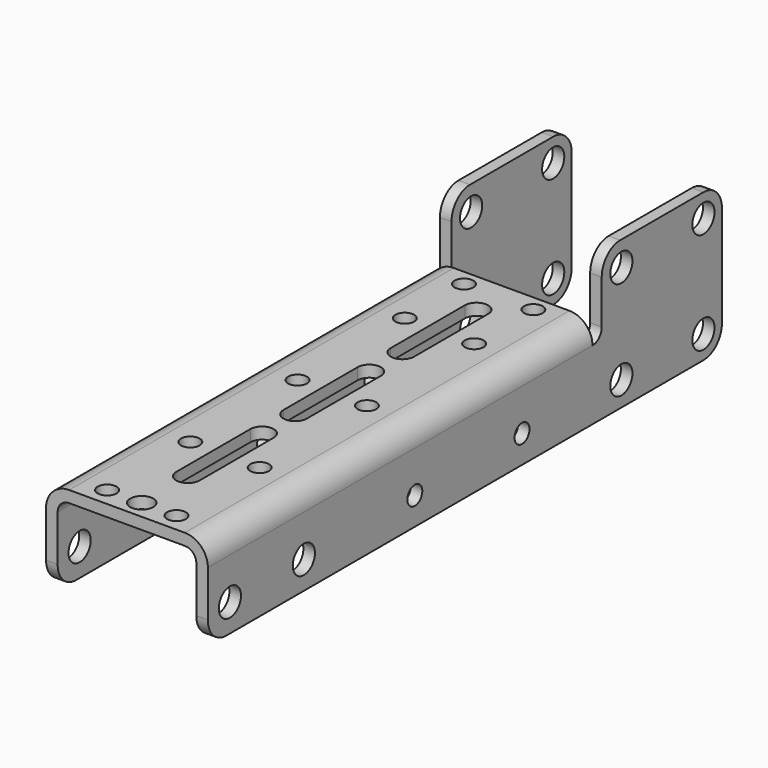
from build123d import *

# Parameters (mm, degrees)
F1_DEPTH      = 208
F2_R          = 6
F3_DEPTH      = 65.001
F3_DEPTH_BACK = 5.001
F5_DEPTH      = 70
F6_R          = 6
F7_DEPTH      = 70.001
F8_R          = 4.05
F8_R_2        = 5
F9_DEPTH      = 40.001


with BuildPart() as f1:
    # F0 (on Front) → F1 (new body)
    with BuildSketch(Plane.XZ):
        with BuildLine():
            ThreePointArc((0, 30), (1.4644660941, 33.5355339059), (5, 35))
            Line((5, 35), (55, 35))
            ThreePointArc((55, 35), (58.5355339059, 33.5355339059), (60, 30))
            Line((60, 30), (60, 0))
            Line((60, 0), (65, 0))
            Line((65, 0), (65, 30))
            ThreePointArc((65, 30), (62.0710678119, 37.0710678119), (55, 40))
            Line((55, 40), (5, 40))
            ThreePointArc((5, 40), (-2.0710678119, 37.0710678119), (-5, 30))
            Line((-5, 30), (-5, 0))
            Line((-5, 0), (0, 0))
            Line((0, 0), (0, 30))
        make_face()
    extrude(amount=F1_DEPTH)

    # F2 (on Right) → F3 (cut, two sides)
    with BuildSketch(Plane.YZ) as f3_sk:
        with Locations((-196.0943733454, 12)):
            Circle(F2_R)
        with Locations((-156.0943733454, 12)):
            Circle(F2_R)
        with BuildLine():
            ThreePointArc((-34.0443733454, 12), (-38.0943733454, 16.05), (-42.1443733454, 12))
            ThreePointArc((-42.1443733454, 12), (-38.0943733454, 7.95), (-34.0443733454, 12))
        make_face()
        with BuildLine():
            ThreePointArc((-92.0443733454, 12), (-96.0943733454, 16.05), (-100.1443733454, 12))
            Line((-100.1443733454, 12), (-96.0943733454, 12))
            Line((-96.0943733454, 12), (-92.0443733454, 12))
        make_face()
        with BuildLine():
            Line((-96.0943733454, 12), (-100.1443733454, 12))
            ThreePointArc((-100.1443733454, 12), (-96.0943733454, 7.95), (-92.0443733454, 12))
            Line((-92.0443733454, 12), (-96.0943733454, 12))
        make_face()
    extrude(amount=F3_DEPTH, mode=Mode.SUBTRACT)
    extrude(f3_sk.sketch, amount=-F3_DEPTH_BACK, mode=Mode.SUBTRACT)

    # F4 (on Front) → F5 (join)
    with BuildSketch(Plane.XZ):
        Polygon((-5, 0), (0, 0), (0, 54), (0, 64), (-5, 64), (-5, 54), align=None)
        Polygon((60, 64), (60, 54), (60, 0), (65, 0), (65, 54), (65, 64), align=None)
    extrude(amount=-F5_DEPTH)

    # F6 (on face) → F7 (cut, through all)
    with BuildSketch(Plane(origin=(-5, 0, 0), x_dir=(0, -1, 0), z_dir=(-1, 0, 0))):
        with Locations((-60, 54)):
            Circle(F6_R)
        with Locations((-15.6066017178, 53.3933982822)):
            Circle(F6_R)
        with Locations((-60, 10)):
            Circle(F6_R)
        with Locations((-15.6066017178, 10.6066017178)):
            Circle(F6_R)
        with BuildLine():
            Line((-70, 10), (-70, 0))
            Line((-70, 0), (-60, 0))
            ThreePointArc((-60, 0), (-67.0710678119, 2.9289321881), (-70, 10))
        make_face()
        with BuildLine():
            ThreePointArc((208, 10), (205.0710678119, 2.9289321881), (198, 0))
            Line((198, 0), (208, 0))
            Line((208, 0), (208, 10))
        make_face()
        with BuildLine():
            Line((-70, 64), (-70, 54))
            ThreePointArc((-70, 54), (-67.0710678119, 61.0710678119), (-60, 64))
            Line((-60, 64), (-70, 64))
        make_face()
        with BuildLine():
            Line((-5, 64), (-15, 64))
            ThreePointArc((-15, 64), (-7.9289321881, 61.0710678119), (-5, 54))
            Line((-5, 54), (-5, 35))
            ThreePointArc((-5, 35), (-3.5355339059, 31.4644660941), (0, 30))
            Line((0, 30), (0, 63.4983927011))
            Line((0, 63.4983927011), (0, 64))
            Line((0, 64), (-5, 64))
        make_face()
    extrude(amount=-F7_DEPTH, mode=Mode.SUBTRACT)

    # F8 (on face) → F9 (cut, through all)
    with BuildSketch(Plane.XY.offset(40)):
        with Locations((15, -7)):
            Circle(F8_R)
        with Locations((15, -39)):
            Circle(F8_R)
        with Locations((15, -97)):
            Circle(F8_R)
        with BuildLine():
            Line((24.95, -76.95), (24.95, -97))
            Line((24.95, -97), (24.95, -117.05))
            ThreePointArc((24.95, -117.05), (30, -122.1), (35.05, -117.05))
            Line((35.05, -117.05), (35.05, -76.95))
            ThreePointArc((35.05, -76.95), (30, -71.9), (24.95, -76.95))
        make_face()
        with Locations((15, -155)):
            Circle(F8_R)
        with Locations((15, -200)):
            Circle(F8_R)
        with Locations((30, -200)):
            Circle(F8_R_2)
        with BuildLine():
            Line((35.05, -59.05), (35.05, -18.95))
            ThreePointArc((35.05, -18.95), (30, -13.9), (24.95, -18.95))
            Line((24.95, -18.95), (24.95, -59.05))
            ThreePointArc((24.95, -59.05), (30, -64.1), (35.05, -59.05))
        make_face()
        with BuildLine():
            ThreePointArc((24.95, -175.05), (30, -180.1), (35.05, -175.05))
            Line((35.05, -175.05), (35.05, -134.95))
            ThreePointArc((35.05, -134.95), (30, -129.9), (24.95, -134.95))
            Line((24.95, -134.95), (24.95, -175.05))
        make_face()
        with Locations((45, -7)):
            Circle(F8_R)
        with Locations((45, -39)):
            Circle(F8_R)
        with Locations((45, -97)):
            Circle(F8_R)
        with Locations((45, -155)):
            Circle(F8_R)
        with Locations((45, -200)):
            Circle(F8_R)
    extrude(amount=-F9_DEPTH, mode=Mode.SUBTRACT)


solid = f1.part
